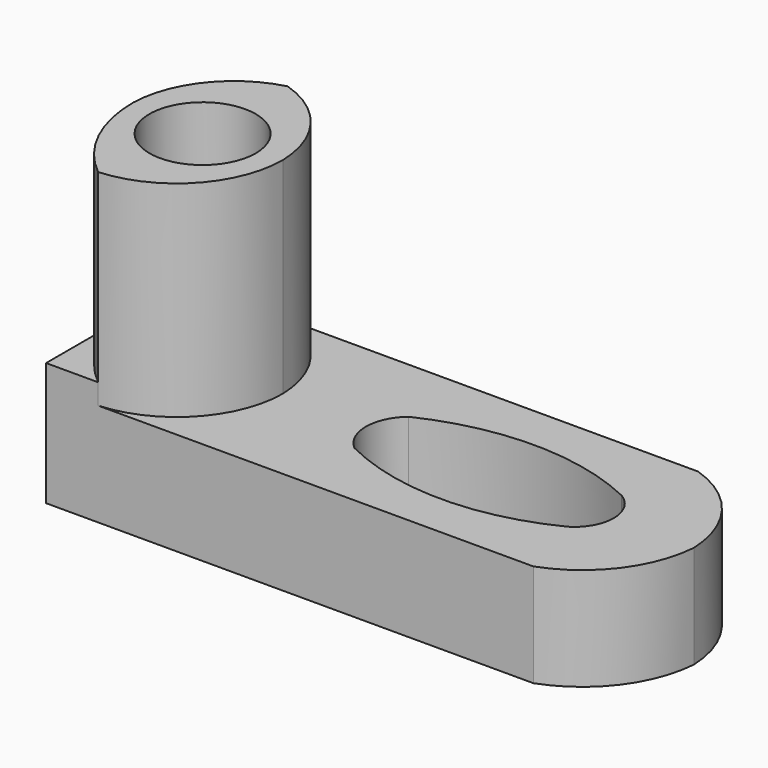
from build123d import *

# Parameters (mm, degrees)
F1_DEPTH  = 25.4
F3_DEPTH  = 25.4
F5_DEPTH  = 25.4
F6_R      = 6.5658374439
F7_DEPTH  = 25.4
F9_DEPTH  = 25.4
F11_DEPTH = 25.4
F13_DEPTH = 22.86


with BuildPart() as f1:
    # F0 (on Front) → F1 (new body)
    with BuildSketch(Plane.XZ):
        Polygon((0, 38.1), (0, 0), (69.85, 0), (69.85, 12.7), (19.05, 12.7), (19.05, 38.1), align=None)
    extrude(amount=F1_DEPTH)

    # F2 (on face) → F3 (cut)
    with BuildSketch(Plane.XY.offset(12.7)):
        with BuildLine():
            ThreePointArc((60.1857788861, 0), (67.0169340084, -4.8288024649), (69.85, -12.7))
            Line((69.85, -12.7), (69.85, 0))
            Line((69.85, 0), (60.1857788861, 0))
        make_face()
        with BuildLine():
            ThreePointArc((69.85, -12.7), (66.883728808, -20.4698334005), (60.1857788861, -25.4))
            Line((60.1857788861, -25.4), (69.85, -25.4))
            Line((69.85, -25.4), (69.85, -12.7))
        make_face()
    extrude(amount=-F3_DEPTH, mode=Mode.SUBTRACT)

    # F4 (on face) → F5 (cut)
    with BuildSketch(Plane.XY.offset(12.7)):
        with BuildLine():
            ThreePointArc((57.5700551271, -8.5117025301), (44.4156061858, -5.5470740223), (31.2611572444, -8.5117025301))
            ThreePointArc((31.2611572444, -8.5117025301), (29.3315874922, -12.6901739277), (31.2611572444, -16.8686453253))
            ThreePointArc((31.2611572444, -16.8686453253), (44.4156061858, -19.9707261196), (57.5700551271, -16.8686453253))
            ThreePointArc((57.5700551271, -16.8686453253), (59.9401679074, -12.6901739277), (57.5700551271, -8.5117025301))
        make_face()
    extrude(amount=-F5_DEPTH, mode=Mode.SUBTRACT)

    # F6 (on face) → F7 (cut)
    with BuildSketch(Plane.XY.offset(38.1)):
        with Locations((9.2854928225, -12.8449322656)):
            Circle(F6_R)
    extrude(amount=-F7_DEPTH, mode=Mode.SUBTRACT)

    # F8 (on face) → F9 (cut)
    with BuildSketch(Plane.XY.offset(38.1)):
        with BuildLine():
            ThreePointArc((9.525, 0), (18.786715691, -12.7), (9.525, -25.4))
            Line((9.525, -25.4), (19.05, -25.4))
            Line((19.05, -25.4), (19.05, 0))
            Line((19.05, 0), (9.525, 0))
        make_face()
    extrude(amount=-F9_DEPTH, mode=Mode.SUBTRACT)

    # F10 (on face) → F11 (cut)
    with BuildSketch(Plane.XY.offset(38.1)):
        with BuildLine():
            ThreePointArc((0, -11.9404586196), (2.7724235634, -4.3827293098), (9.525, 0))
            Line((9.525, 0), (0, 0))
            Line((0, 0), (0, -11.9404586196))
        make_face()
        with BuildLine():
            ThreePointArc((9.525, -25.4), (16.3361598408, -20.4049868588), (18.7813081047, -12.3202293098))
            ThreePointArc((18.7813081047, -12.3202293098), (15.1842035357, -21.293169718), (6.4328170235, -25.4))
            Line((6.4328170235, -25.4), (9.525, -25.4))
        make_face()
    extrude(amount=-F11_DEPTH, mode=Mode.SUBTRACT)

    # F12 (on face) → F13 (cut)
    with BuildSketch(Plane.XY.offset(38.1)):
        with BuildLine():
            ThreePointArc((6.4328170235, -25.4), (1.6908462088, -19.3993524556), (0, -11.9404586196))
            Line((0, -11.9404586196), (0, -25.4))
            Line((0, -25.4), (6.4328170235, -25.4))
        make_face()
    extrude(amount=-F13_DEPTH, mode=Mode.SUBTRACT)


solid = f1.part
